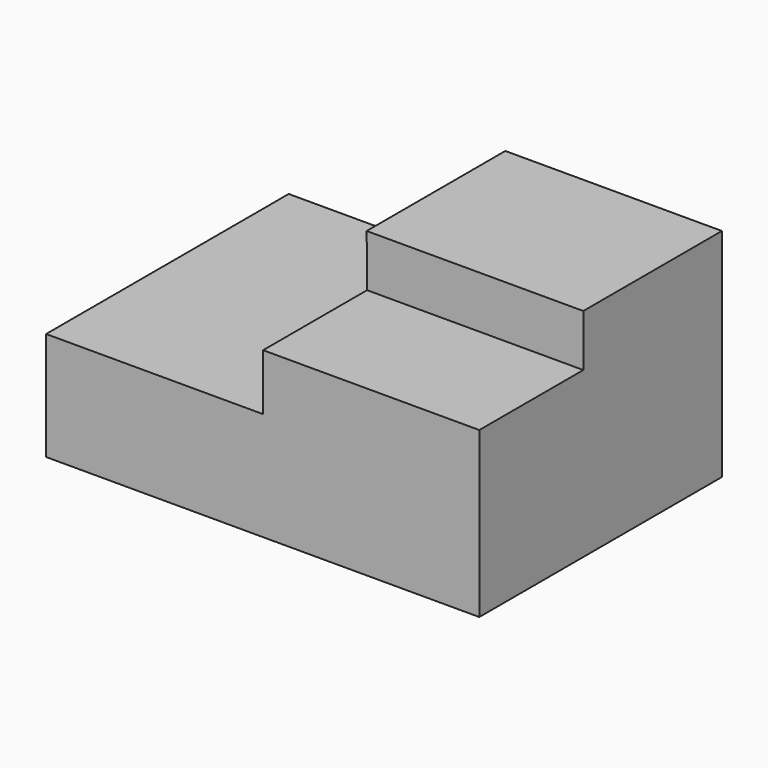
from build123d import *

# Parameters (mm, degrees)
F1_DEPTH = 30
F2_DEPTH = 40
F3_DEPTH = 40


with BuildPart() as f1:
    # F0 (on Front) → F1 (new body)
    with BuildSketch(Plane.XZ):
        Polygon((-50.096733, -28.09375), (-50.096733, -53.09375), (49.903267, -53.09375), (49.903267, -15.09375), (0, -15.09375), (0, -28.09375), align=None)
    extrude(amount=F1_DEPTH)

    # F0 (on Front) → F2 (join)
    with BuildSketch(Plane.XZ):
        Polygon((0, -15.09375), (49.903267, -15.09375), (49.903267, -3.09375), (-0.096733, -3.09375), align=None)
    extrude(amount=-F2_DEPTH)

    # F0 (on Front) → F3 (join)
    with BuildSketch(Plane.XZ):
        Polygon((-50.096733, -28.09375), (-50.096733, -53.09375), (49.903267, -53.09375), (49.903267, -15.09375), (0, -15.09375), (0, -28.09375), align=None)
    extrude(amount=-F3_DEPTH)


solid = f1.part
